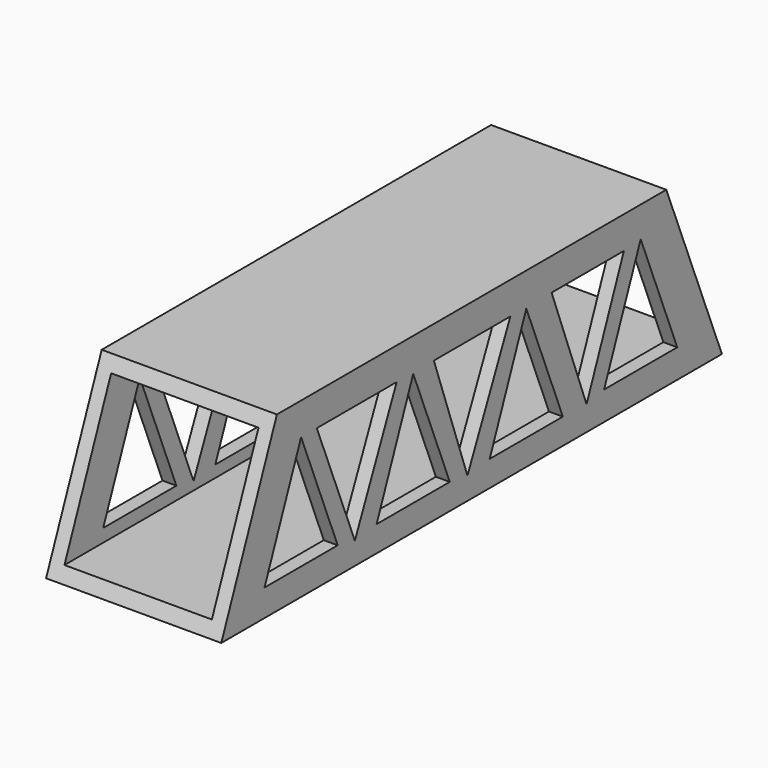
from build123d import *

# Parameters (mm, degrees)
F1_DEPTH = 16.002
F2_W     = 26.924
F2_H     = 26.508333
F3_DEPTH = 74.168


with BuildPart() as f1:
    # F0 (on Right) → F1 (new body, symmetric)
    with BuildSketch(Plane.YZ):
        Polygon((-49.758316, 12.128698), (-62.458316, -19.459635), (51.841684, -19.459635), (39.141684, 12.128698), align=None)
        Polygon((-52.590271, -14.552061), (-44.235989, 6.227295), (-35.881708, -14.552061), align=None, mode=Mode.SUBTRACT)
        Polygon((-31.962601, -15.400959), (-40.65818, 6.227295), (-22.415962, 6.227295), align=None, mode=Mode.SUBTRACT)
        Polygon((-10.286399, -14.761901), (-26.994962, -14.761901), (-18.64068, 6.017455), align=None, mode=Mode.SUBTRACT)
        Polygon((-6.256627, -15.400959), (-13.929036, 6.227295), (3.535214, 6.227295), align=None, mode=Mode.SUBTRACT)
        Polygon((15.530244, -14.763517), (-1.178319, -14.763517), (7.175963, 6.015839), align=None, mode=Mode.SUBTRACT)
        Polygon((20.934417, -14.984425), (12.952536, 6.227295), (29.462529, 6.227295), align=None, mode=Mode.SUBTRACT)
        Polygon((41.647514, -14.229707), (24.938951, -14.229707), (33.293232, 6.549649), align=None, mode=Mode.SUBTRACT)
    extrude(amount=F1_DEPTH, both=True)

    # F2 (on Front) → F3 (cut, symmetric)
    with BuildSketch(Plane.XZ):
        with Locations((0, -3.665469)):
            Rectangle(F2_W, F2_H)
    extrude(amount=F3_DEPTH, both=True, mode=Mode.SUBTRACT)


solid = f1.part
